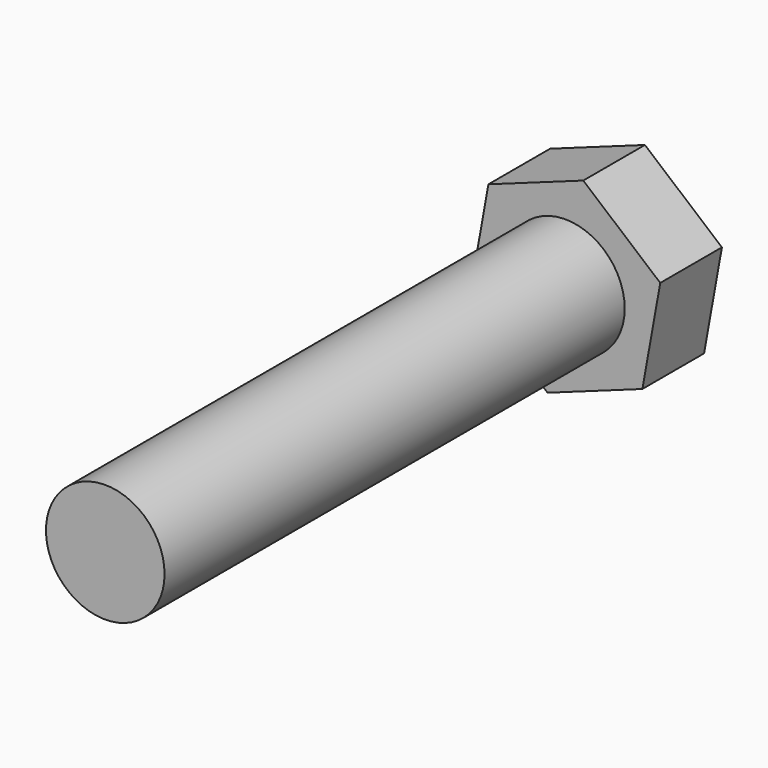
from build123d import *

# Parameters (mm, degrees)
F0_R     = 5
F1_DEPTH = 6.5
F2_DEPTH = 55


with BuildPart() as f1:
    # F0 (on Front) → F1 (new body)
    with BuildSketch(Plane.XZ):
        Polygon((6.491808, -5.486932), (7.997727, 2.878605), (1.505919, 8.365537), (-6.491808, 5.486932), (-7.997727, -2.878605), (-1.505919, -8.365537), align=None)
        Circle(F0_R, mode=Mode.SUBTRACT)
    extrude(amount=F1_DEPTH)

    # F0 (on Front) → F2 (join)
    with BuildSketch(Plane.XZ):
        Circle(F0_R)
    extrude(amount=F2_DEPTH)


solid = f1.part
